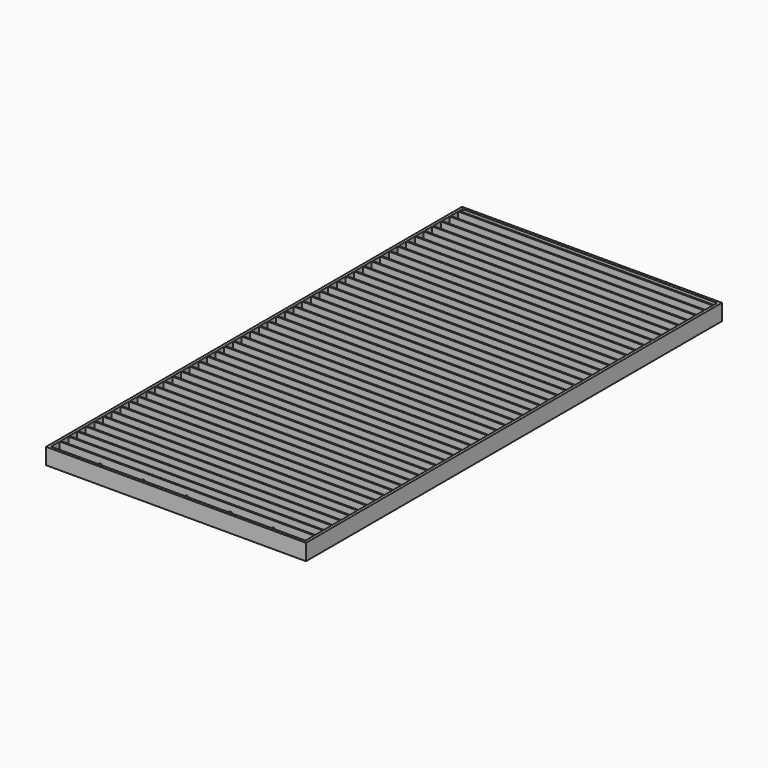
from build123d import *

# Parameters (mm, degrees)
F0_W     = 609.6
F0_H     = 1219.2
F0_W_2   = 596.9
F0_H_2   = 3.175
F1_DEPTH = 38.1
F3_DEPTH = 1219.2


with BuildPart() as f1:
    # F0 (on Top) → F1 (new body)
    with BuildSketch(Plane.XY):
        Rectangle(F0_W, F0_H)
        Polygon((-298.45, 593.725), (-298.45, 603.25), (298.45, 603.25), (298.45, 593.725), (298.45, 590.55), (298.45, 568.325), (298.45, 565.15), (298.45, 542.925), (298.45, 539.75), (298.45, 517.525), (298.45, 514.35), (298.45, 492.125), (298.45, 488.95), (298.45, 466.725), (298.45, 463.55), (298.45, 441.325), (298.45, 438.15), (298.45, 415.925), (298.45, 412.75), (298.45, 390.525), (298.45, 387.35), (298.45, 365.125), (298.45, 361.95), (298.45, 339.725), (298.45, 336.55), (298.45, 314.325), (298.45, 311.15), (298.45, 288.925), (298.45, 285.75), (298.45, 263.525), (298.45, 260.35), (298.45, 238.125), (298.45, 234.95), (298.45, 212.725), (298.45, 209.55), (298.45, 187.325), (298.45, 184.15), (298.45, 161.925), (298.45, 158.75), (298.45, 136.525), (298.45, 133.35), (298.45, 111.125), (298.45, 107.95), (298.45, 85.725), (298.45, 82.55), (298.45, 60.325), (298.45, 57.15), (298.45, 34.925), (298.45, 31.75), (298.45, 9.525), (298.45, 6.35), (298.45, -15.875), (298.45, -19.05), (298.45, -41.275), (298.45, -44.45), (298.45, -66.675), (298.45, -69.85), (298.45, -92.075), (298.45, -95.25), (298.45, -117.475), (298.45, -120.65), (298.45, -142.875), (298.45, -146.05), (298.45, -168.275), (298.45, -171.45), (298.45, -193.675), (298.45, -196.85), (298.45, -219.075), (298.45, -222.25), (298.45, -244.475), (298.45, -247.65), (298.45, -269.875), (298.45, -273.05), (298.45, -295.275), (298.45, -298.45), (298.45, -320.675), (298.45, -323.85), (298.45, -346.075), (298.45, -349.25), (298.45, -371.475), (298.45, -374.65), (298.45, -396.875), (298.45, -400.05), (298.45, -422.275), (298.45, -425.45), (298.45, -447.675), (298.45, -450.85), (298.45, -473.075), (298.45, -476.25), (298.45, -498.475), (298.45, -501.65), (298.45, -523.875), (298.45, -527.05), (298.45, -549.275), (298.45, -552.45), (298.45, -574.675), (298.45, -577.85), (298.45, -603.25), (-298.45, -603.25), (-298.45, -577.85), (-298.45, -574.675), (-298.45, -552.45), (-298.45, -549.275), (-298.45, -527.05), (-298.45, -523.875), (-298.45, -501.65), (-298.45, -498.475), (-298.45, -476.25), (-298.45, -473.075), (-298.45, -450.85), (-298.45, -447.675), (-298.45, -425.45), (-298.45, -422.275), (-298.45, -400.05), (-298.45, -396.875), (-298.45, -374.65), (-298.45, -371.475), (-298.45, -349.25), (-298.45, -346.075), (-298.45, -323.85), (-298.45, -320.675), (-298.45, -298.45), (-298.45, -295.275), (-298.45, -273.05), (-298.45, -269.875), (-298.45, -247.65), (-298.45, -244.475), (-298.45, -222.25), (-298.45, -219.075), (-298.45, -196.85), (-298.45, -193.675), (-298.45, -171.45), (-298.45, -168.275), (-298.45, -146.05), (-298.45, -142.875), (-298.45, -120.65), (-298.45, -117.475), (-298.45, -95.25), (-298.45, -92.075), (-298.45, -69.85), (-298.45, -66.675), (-298.45, -44.45), (-298.45, -41.275), (-298.45, -19.05), (-298.45, -15.875), (-298.45, 6.35), (-298.45, 9.525), (-298.45, 31.75), (-298.45, 34.925), (-298.45, 57.15), (-298.45, 60.325), (-298.45, 82.55), (-298.45, 85.725), (-298.45, 107.95), (-298.45, 111.125), (-298.45, 133.35), (-298.45, 136.525), (-298.45, 158.75), (-298.45, 161.925), (-298.45, 184.15), (-298.45, 187.325), (-298.45, 209.55), (-298.45, 212.725), (-298.45, 234.95), (-298.45, 238.125), (-298.45, 260.35), (-298.45, 263.525), (-298.45, 285.75), (-298.45, 288.925), (-298.45, 311.15), (-298.45, 314.325), (-298.45, 336.55), (-298.45, 339.725), (-298.45, 361.95), (-298.45, 365.125), (-298.45, 387.35), (-298.45, 390.525), (-298.45, 412.75), (-298.45, 415.925), (-298.45, 438.15), (-298.45, 441.325), (-298.45, 463.55), (-298.45, 466.725), (-298.45, 488.95), (-298.45, 492.125), (-298.45, 514.35), (-298.45, 517.525), (-298.45, 539.75), (-298.45, 542.925), (-298.45, 565.15), (-298.45, 568.325), (-298.45, 590.55), align=None, mode=Mode.SUBTRACT)
        with Locations((0, -576.2625)):
            Rectangle(F0_W_2, F0_H_2)
        with Locations((0, -550.8625)):
            Rectangle(F0_W_2, F0_H_2)
        with Locations((0, -525.4625)):
            Rectangle(F0_W_2, F0_H_2)
        with Locations((0, -500.0625)):
            Rectangle(F0_W_2, F0_H_2)
        with Locations((0, -474.6625)):
            Rectangle(F0_W_2, F0_H_2)
        with Locations((0, -449.2625)):
            Rectangle(F0_W_2, F0_H_2)
        with Locations((0, -423.8625)):
            Rectangle(F0_W_2, F0_H_2)
        with Locations((0, -398.4625)):
            Rectangle(F0_W_2, F0_H_2)
        with Locations((0, -373.0625)):
            Rectangle(F0_W_2, F0_H_2)
        with Locations((0, -347.6625)):
            Rectangle(F0_W_2, F0_H_2)
        with Locations((0, -322.2625)):
            Rectangle(F0_W_2, F0_H_2)
        with Locations((0, -296.8625)):
            Rectangle(F0_W_2, F0_H_2)
        with Locations((0, -271.4625)):
            Rectangle(F0_W_2, F0_H_2)
        with Locations((0, -246.0625)):
            Rectangle(F0_W_2, F0_H_2)
        with Locations((0, -220.6625)):
            Rectangle(F0_W_2, F0_H_2)
        with Locations((0, -195.2625)):
            Rectangle(F0_W_2, F0_H_2)
        with Locations((0, -169.8625)):
            Rectangle(F0_W_2, F0_H_2)
        with Locations((0, -144.4625)):
            Rectangle(F0_W_2, F0_H_2)
        with Locations((0, -119.0625)):
            Rectangle(F0_W_2, F0_H_2)
        with Locations((0, -93.6625)):
            Rectangle(F0_W_2, F0_H_2)
        with Locations((0, -68.2625)):
            Rectangle(F0_W_2, F0_H_2)
        with Locations((0, -42.8625)):
            Rectangle(F0_W_2, F0_H_2)
        with Locations((0, -17.4625)):
            Rectangle(F0_W_2, F0_H_2)
        with Locations((0, 7.9375)):
            Rectangle(F0_W_2, F0_H_2)
        with Locations((0, 33.3375)):
            Rectangle(F0_W_2, F0_H_2)
        with Locations((0, 58.7375)):
            Rectangle(F0_W_2, F0_H_2)
        with Locations((0, 84.1375)):
            Rectangle(F0_W_2, F0_H_2)
        with Locations((0, 109.5375)):
            Rectangle(F0_W_2, F0_H_2)
        with Locations((0, 134.9375)):
            Rectangle(F0_W_2, F0_H_2)
        with Locations((0, 160.3375)):
            Rectangle(F0_W_2, F0_H_2)
        with Locations((0, 185.7375)):
            Rectangle(F0_W_2, F0_H_2)
        with Locations((0, 211.1375)):
            Rectangle(F0_W_2, F0_H_2)
        with Locations((0, 236.5375)):
            Rectangle(F0_W_2, F0_H_2)
        with Locations((0, 261.9375)):
            Rectangle(F0_W_2, F0_H_2)
        with Locations((0, 287.3375)):
            Rectangle(F0_W_2, F0_H_2)
        with Locations((0, 312.7375)):
            Rectangle(F0_W_2, F0_H_2)
        with Locations((0, 338.1375)):
            Rectangle(F0_W_2, F0_H_2)
        with Locations((0, 363.5375)):
            Rectangle(F0_W_2, F0_H_2)
        with Locations((0, 388.9375)):
            Rectangle(F0_W_2, F0_H_2)
        with Locations((0, 414.3375)):
            Rectangle(F0_W_2, F0_H_2)
        with Locations((0, 439.7375)):
            Rectangle(F0_W_2, F0_H_2)
        with Locations((0, 465.1375)):
            Rectangle(F0_W_2, F0_H_2)
        with Locations((0, 490.5375)):
            Rectangle(F0_W_2, F0_H_2)
        with Locations((0, 515.9375)):
            Rectangle(F0_W_2, F0_H_2)
        with Locations((0, 541.3375)):
            Rectangle(F0_W_2, F0_H_2)
        with Locations((0, 566.7375)):
            Rectangle(F0_W_2, F0_H_2)
        with Locations((0, 592.1375)):
            Rectangle(F0_W_2, F0_H_2)
    extrude(amount=F1_DEPTH)

    # F2 (on face) → F3 (join)
    with BuildSketch(Plane.XZ.offset(609.6)):
        with BuildLine():
            ThreePointArc((-198.4375, 19.05), (-203.2, 23.8125), (-207.9625, 19.05))
            Line((-207.9625, 19.05), (-203.2, 19.05))
            Line((-203.2, 19.05), (-198.4375, 19.05))
        make_face()
        with BuildLine():
            ThreePointArc((207.9625, 19.05), (203.2, 23.8125), (198.4375, 19.05))
            ThreePointArc((198.4375, 19.05), (203.2, 14.2875), (207.9625, 19.05))
        make_face()
        with BuildLine():
            ThreePointArc((106.3625, 19.05), (101.6, 23.8125), (96.8375, 19.05))
            Line((96.8375, 19.05), (101.6, 19.05))
            Line((101.6, 19.05), (106.3625, 19.05))
        make_face()
        with BuildLine():
            Line((101.6, 19.05), (96.8375, 19.05))
            ThreePointArc((96.8375, 19.05), (101.6, 14.2875), (106.3625, 19.05))
            Line((106.3625, 19.05), (101.6, 19.05))
        make_face()
        with BuildLine():
            ThreePointArc((4.7625, 19.05), (0, 23.8125), (-4.7625, 19.05))
            Line((-4.7625, 19.05), (0, 19.05))
            Line((0, 19.05), (4.7625, 19.05))
        make_face()
        with BuildLine():
            Line((0, 19.05), (-4.7625, 19.05))
            ThreePointArc((-4.7625, 19.05), (0, 14.2875), (4.7625, 19.05))
            Line((4.7625, 19.05), (0, 19.05))
        make_face()
        with BuildLine():
            ThreePointArc((-96.8375, 19.05), (-101.6, 23.8125), (-106.3625, 19.05))
            Line((-106.3625, 19.05), (-101.6, 19.05))
            Line((-101.6, 19.05), (-96.8375, 19.05))
        make_face()
        with BuildLine():
            Line((-101.6, 19.05), (-106.3625, 19.05))
            ThreePointArc((-106.3625, 19.05), (-101.6, 14.2875), (-96.8375, 19.05))
            Line((-96.8375, 19.05), (-101.6, 19.05))
        make_face()
        with BuildLine():
            Line((-203.2, 19.05), (-207.9625, 19.05))
            ThreePointArc((-207.9625, 19.05), (-203.2, 14.2875), (-198.4375, 19.05))
            Line((-198.4375, 19.05), (-203.2, 19.05))
        make_face()
    extrude(amount=-F3_DEPTH)


solid = f1.part
